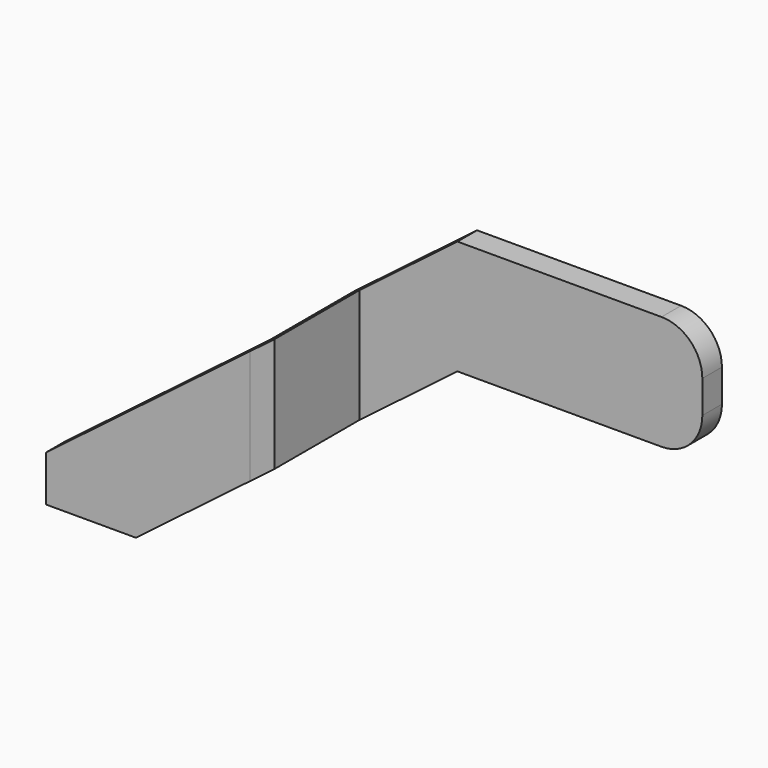
from build123d import *

# Parameters (mm, degrees)
F1_DEPTH = 3
F2_DEPTH = 13
F3_DEPTH = 13
F4_START = 10
F4_DEPTH = 3
F5_DEPTH = 3
F6_R     = 2.5
F7_DEPTH = 25


with BuildPart() as f1:
    # F0 (on Front) → F1 (new body)
    with BuildSketch(Plane.XZ):
        with BuildLine():
            Line((16.4211452901, 36.0854895675), (-8.5788547099, 36.0854895675))
            Line((-8.5788547099, 36.0854895675), (-20.5788547099, 26.9466662982))
            Line((-20.5788547099, 26.9466662982), (-20.5788547099, 12.9466662982))
            Line((-20.5788547099, 12.9466662982), (-8.5788547099, 22.0854895675))
            Line((-8.5788547099, 22.0854895675), (16.4211452901, 22.0854895675))
            ThreePointArc((16.4211452901, 22.0854895675), (19.9566791961, 23.5499556615), (21.4211452901, 27.0854895675))
            Line((21.4211452901, 27.0854895675), (21.4211452901, 31.0854895675))
            ThreePointArc((21.4211452901, 31.0854895675), (19.9566791961, 34.6210234734), (16.4211452901, 36.0854895675))
        make_face()
        Polygon((-20.5788547099, 12.9466662982), (-20.5788547099, 26.9466662982), (-23.5788547099, 24.6619604809), (-23.5788547099, 10.6619604809), align=None)
    extrude(amount=-F1_DEPTH)

    # F0 (on Front) → F2 (join)
    with BuildSketch(Plane.XZ):
        Polygon((-20.5788547099, 12.9466662982), (-20.5788547099, 26.9466662982), (-23.5788547099, 24.6619604809), (-23.5788547099, 10.6619604809), align=None)
    extrude(amount=F2_DEPTH)


with BuildPart() as f3:
    # F0 (on Front) → F3 (new body)
    with BuildSketch(Plane.XZ):
        Polygon((-34.2961563672, 2.5), (-48.5788547099, 2.5), (-48.5788547099, 0), (-37.5788547099, 0), align=None)
    extrude(amount=F3_DEPTH)

    # F0 (on Front) → F4 (join)
    with BuildSketch(Plane.XZ.offset(F4_START)):
        Polygon((-23.5788547099, 10.6619604809), (-23.5788547099, 24.6619604809), (-48.5788547099, 5.6227453365), (-48.5788547099, 2.5), (-34.2961563672, 2.5), align=None)
    extrude(amount=F4_DEPTH)

    # F0 (on Front) → F5 (join)
    with BuildSketch(Plane.XZ):
        Polygon((-34.2961563672, 2.5), (-48.5788547099, 2.5), (-48.5788547099, 0), (-37.5788547099, 0), align=None)
    extrude(amount=-F5_DEPTH)

    # F6 (on face) → F7 (cut)
    with BuildSketch(Plane(origin=(0, 0, 0), x_dir=(1, 0, 0), z_dir=(0, 0, -1))):
        with Locations((-43.1985519826, 3.5)):
            Circle(F6_R)
    extrude(amount=-F7_DEPTH, mode=Mode.SUBTRACT)


solid = Compound([f1.part, f3.part])
